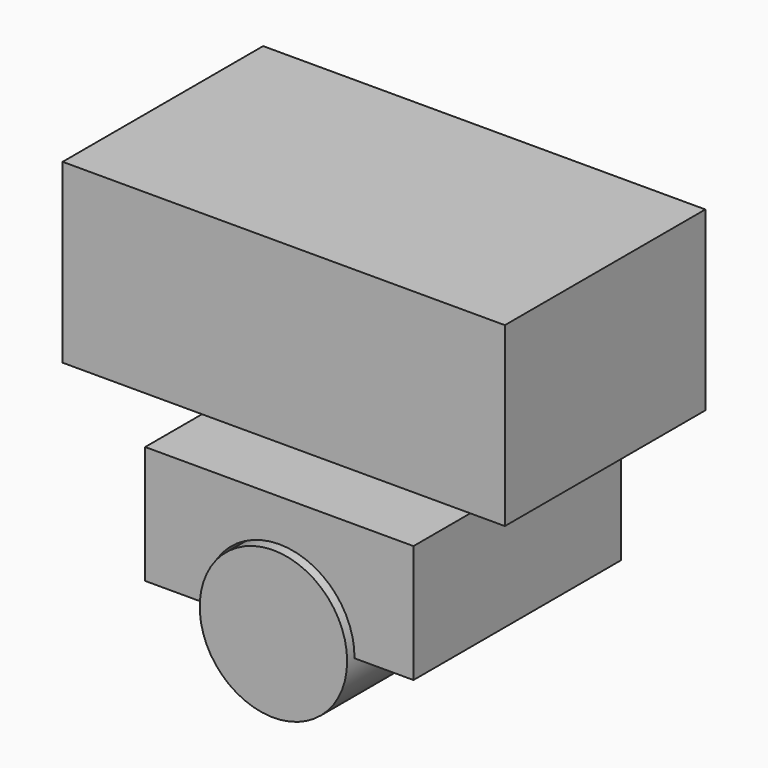
from build123d import *

# Parameters (mm, degrees)
F0_R     = 12.7
F1_DEPTH = 45.974
F3_DEPTH = 44.704
F4_W     = 76.2
F4_H     = 30.48
F5_DEPTH = 43.18


with BuildPart() as f1:
    # F0 (on Front) → F1 (new body)
    with BuildSketch(Plane.XZ):
        Circle(F0_R)
    extrude(amount=F1_DEPTH)


with BuildPart() as f3:
    # F2 (on Front) → F3 (new body)
    with BuildSketch(Plane.XZ):
        with BuildLine():
            ThreePointArc((-12.954, 0), (0, 13.08981), (12.954, 0))
            Line((12.954, 0), (23.114, 0))
            Line((23.114, 0), (23.114, 20.32))
            Line((23.114, 20.32), (-23.114, 20.32))
            Line((-23.114, 20.32), (-23.114, 0))
            Line((-23.114, 0), (-12.954, 0))
        make_face()
    extrude(amount=F3_DEPTH)


with BuildPart() as f5:
    # F4 (on Front) → F5 (new body)
    with BuildSketch(Plane.XZ):
        with Locations((-0.456051, 42.700759)):
            Rectangle(F4_W, F4_H)
    extrude(amount=F5_DEPTH)

    # F6: cut F1, F3
    add(f1.part, mode=Mode.SUBTRACT)
    add(f3.part, mode=Mode.SUBTRACT)


solid = Compound([f1.part, f3.part, f5.part])
